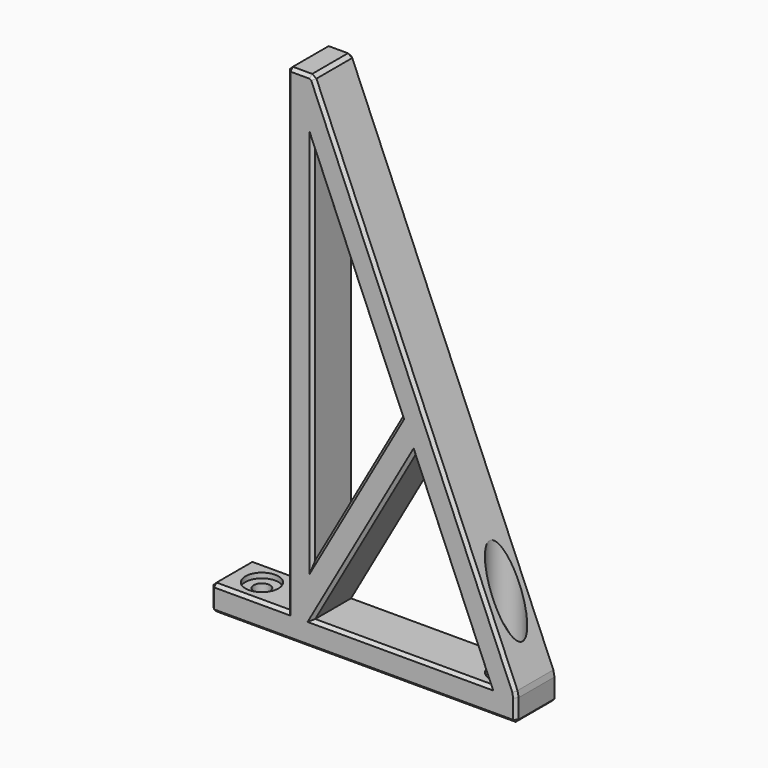
from build123d import *

# Parameters (mm, degrees)
PAD009_DEPTH    = 10
SKETCH021_R     = 2.35
POCKET008_DEPTH = 5
SKETCH022_R     = 1.6
POCKET009_DEPTH = 99.151
SKETCH023_R     = 3.25
POCKET010_DEPTH = 95.151
CHAMFER007_SIZE = 0.6
CHAMFER008_SIZE = 0.4


with BuildPart() as part:
    # Sketch020 → Pad009 (new body)
    with BuildSketch(Plane.XZ):
        Polygon((-60, 0), (0, 0), (0, 5), (-40, 99.15), (-45, 99.15), (-45, 5), (-60, 5), align=None)
        Polygon((-40, 5), (-5.4325428768, 5), (-20.2529345059, 39.8834967971), align=None, mode=Mode.SUBTRACT)
        Polygon((-40, 15.1496021181), (-22.7162714384, 45.6815761019), (-40, 86.3631522038), align=None, mode=Mode.SUBTRACT)
    extrude(amount=PAD009_DEPTH)

    # Sketch021 (on Face5 of Pad009) → Pocket008 (cut)
    with BuildSketch(Plane(origin=(-45, 0, 0), x_dir=(0, 0, -1), z_dir=(-1, 0, 0))):
        with Locations((-89.15, 5)):
            Circle(SKETCH021_R)
        with Locations((-15.15, 5)):
            Circle(SKETCH021_R)
    extrude(amount=-POCKET008_DEPTH, mode=Mode.SUBTRACT)

    # Sketch022 (on Face1 of Pocket008) → Pocket009 (cut, through all)
    with BuildSketch(Plane(origin=(0, 0, 0), x_dir=(1, 0, 0), z_dir=(0, 0, -1))):
        with Locations((-54, 5)):
            Circle(SKETCH022_R)
        with Locations((-6, 5)):
            Circle(SKETCH022_R)
    extrude(amount=-POCKET009_DEPTH, mode=Mode.SUBTRACT)

    # Sketch023 (on Sketch) → Pocket010 (cut, through all)
    with BuildSketch(Plane(origin=(0, 0, 4), x_dir=(1, 0, 0), z_dir=(0, 0, -1))):
        with Locations((-54, 5)):
            Circle(SKETCH023_R)
        with Locations((-6, 5)):
            Circle(SKETCH023_R)
    extrude(amount=-POCKET010_DEPTH, mode=Mode.SUBTRACT)

    # Chamfer007
    chamfer007_edges = [part.edges().sort_by_distance(p)[0] for p in [
        (-30, 0, 0),
        (0, 0, 2.5),
        (-20, 0, 52.075),
        (-42.5, 0, 99.15),
        (-45, 0, 52.075),
        (-52.5, 0, 5),
        (-60, 0, 2.5),
        (-31.358136, 0, 30.415589),
        (-31.358136, 0, 66.022364),
        (-40, 0, 50.756377),
        (-22.716271, 0, 5),
        (-12.842739, 0, 22.441748),
        (-30.126467, 0, 22.441748),
        (-30, -10, 0),
        (0, -10, 2.5),
        (-20, -10, 52.075),
        (-42.5, -10, 99.15),
        (-45, -10, 52.075),
        (-52.5, -10, 5),
        (-60, -10, 2.5),
        (-31.358136, -10, 30.415589),
        (-31.358136, -10, 66.022364),
        (-40, -10, 50.756377),
        (-22.716271, -10, 5),
        (-12.842739, -10, 22.441748),
        (-30.126467, -10, 22.441748),
        (-40, -5, 99.15),
        (-45, -5, 99.15),
        (-60, -5, 5),
        (-60, -5, 0),
        (0, -5, 0),
        (0, -5, 5),
    ]]
    chamfer(chamfer007_edges, length=CHAMFER007_SIZE)

    # Chamfer008
    chamfer008_edges = [part.edges().sort_by_distance(p)[0] for p in [
        (-45, -5, 91.5),
        (-45, -5, 17.5),
    ]]
    chamfer(chamfer008_edges, length=CHAMFER008_SIZE)


solid = part.part
